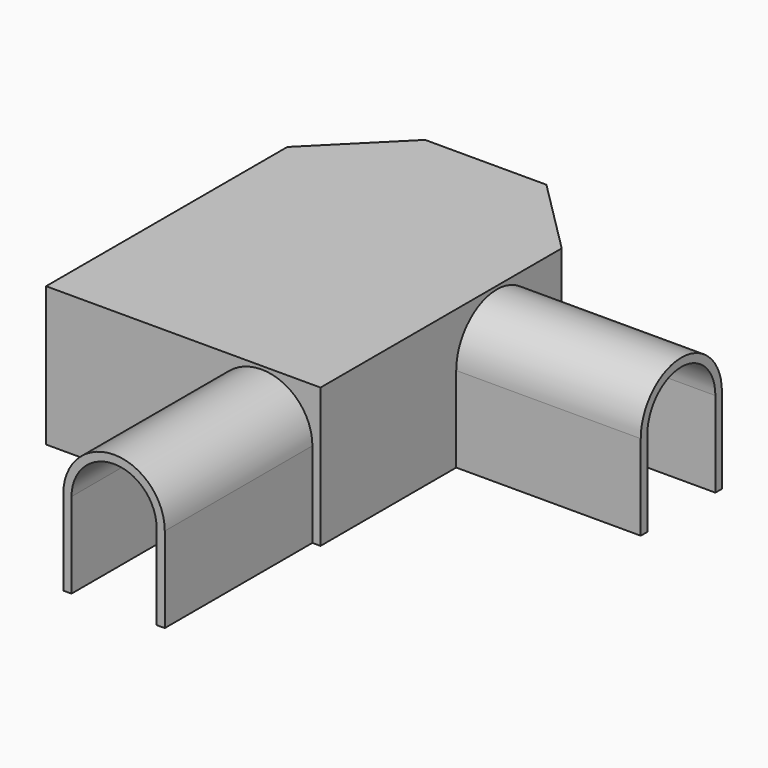
from build123d import *

# Parameters (mm, degrees)
F1_DEPTH  = 32
F3_DEPTH  = 2
F5_DEPTH  = 2
F7_DEPTH  = 2
F9_DEPTH  = 45
F11_DEPTH = 45


with BuildPart() as f1:
    # F0 (on Top) → F1 (new body)
    with BuildSketch(Plane.XY):
        Polygon((2, 71.536247), (-16.671573, 90.20782), (-46.258427, 90.20782), (-64.93, 71.536247), (-64.93, -2), (2, -2), align=None)
        Polygon((0, 70.70782), (0, 0), (-62.93, 0), (-62.93, 70.70782), (-45.43, 88.20782), (-17.5, 88.20782), align=None, mode=Mode.SUBTRACT)
    extrude(amount=-F1_DEPTH)

    # F2 (on face) → F3 (join)
    with BuildSketch(Plane.XY):
        Polygon((-64.93, 71.536247), (-64.93, -2), (2, -2), (2, 71.536247), (-16.671573, 90.20782), (-46.258427, 90.20782), align=None)
    extrude(amount=F3_DEPTH)

    # F4 (on face) → F5 (cut)
    with BuildSketch(Plane.XZ.offset(2)):
        with BuildLine():
            ThreePointArc((-12.355, -0.78), (-19.691233, -3.818767), (-22.73, -11.155))
            Line((-22.73, -11.155), (-22.73, -32))
            Line((-22.73, -32), (-1.98, -32))
            Line((-1.98, -32), (-1.98, -11.155))
            ThreePointArc((-1.98, -11.155), (-5.018767, -3.818767), (-12.355, -0.78))
        make_face()
    extrude(amount=-F5_DEPTH, mode=Mode.SUBTRACT)

    # F6 (on face) → F7 (cut)
    with BuildSketch(Plane.YZ.offset(2)):
        with BuildLine():
            Line((62.125, -32), (62.125, -11.155))
            ThreePointArc((62.125, -11.155), (59.086233, -3.818767), (51.75, -0.78))
            ThreePointArc((51.75, -0.78), (44.413767, -3.818767), (41.375, -11.155))
            Line((41.375, -11.155), (41.375, -32))
            Line((41.375, -32), (62.125, -32))
        make_face()
    extrude(amount=-F7_DEPTH, mode=Mode.SUBTRACT)

    # F8 (on face) → F9 (join)
    with BuildSketch(Plane.XZ.offset(2)):
        with BuildLine():
            ThreePointArc((0.02, -11.155), (-12.355, 1.22), (-24.73, -11.155))
            Line((-24.73, -11.155), (-24.73, -32))
            Line((-24.73, -32), (-22.73, -32))
            Line((-22.73, -32), (-22.73, -11.155))
            ThreePointArc((-22.73, -11.155), (-12.355, -0.78), (-1.98, -11.155))
            Line((-1.98, -11.155), (-1.98, -32))
            Line((-1.98, -32), (0.02, -32))
            Line((0.02, -32), (0.02, -11.155))
        make_face()
    extrude(amount=F9_DEPTH)

    # F10 (on face) → F11 (join)
    with BuildSketch(Plane.YZ.offset(2)):
        with BuildLine():
            ThreePointArc((64.125, -11.155), (51.75, 1.22), (39.375, -11.155))
            Line((39.375, -11.155), (39.375, -32))
            Line((39.375, -32), (41.375, -32))
            Line((41.375, -32), (41.375, -11.155))
            ThreePointArc((41.375, -11.155), (51.75, -0.78), (62.125, -11.155))
            Line((62.125, -11.155), (62.125, -32))
            Line((62.125, -32), (64.125, -32))
            Line((64.125, -32), (64.125, -11.155))
        make_face()
    extrude(amount=F11_DEPTH)


solid = f1.part
